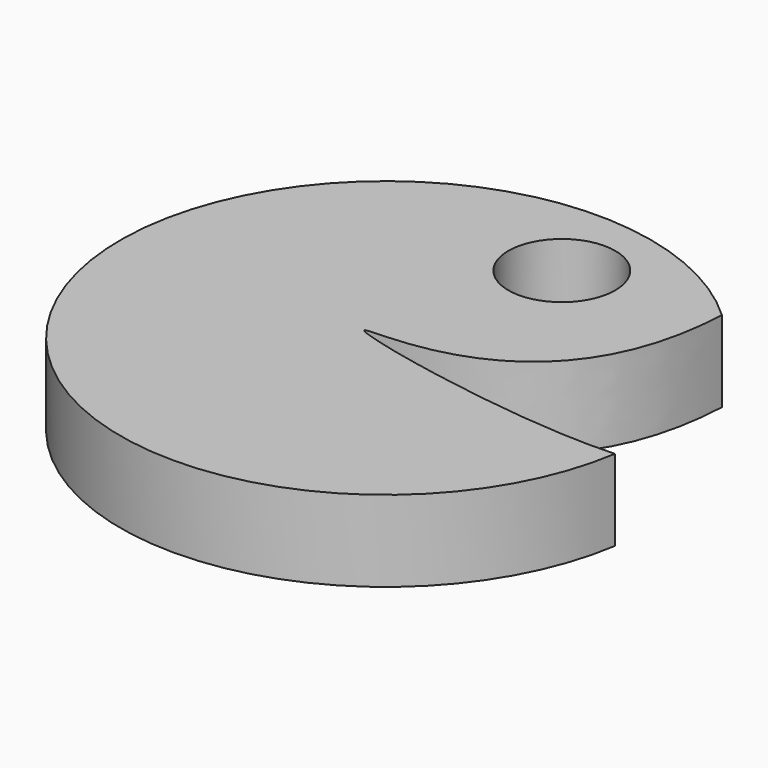
from build123d import *

# Parameters (mm, degrees)
F0_R     = 16.7498212232
F1_DEPTH = 25.4


with BuildPart() as f1:
    # F0 (on Top) → F1 (new body)
    with BuildSketch(Plane.XY):
        with BuildLine():
            add(Edge.make_bspline(
                [(56.6194579005, 60.8181916177), (53.4817835413, -6.7624999007), (-4.9721019097, 1.911282091), (-6.585683208, 0)],
                knots=[0, 0, 0, 0, 0.4973329558, 0.4973329558, 0.4973329558, 0.4973329558], degree=3))
            ThreePointArc((56.6194579005, 60.8181916177), (-33.1653231635, 76.1884294632), (-83.0940156967, 0))
            Line((-83.0940156967, 0), (-6.585683208, 0))
        make_face()
        with Locations((11.3103622571, 54.7754205763)):
            Circle(F0_R, mode=Mode.SUBTRACT)
        with BuildLine():
            Line((-6.585683208, 0), (-83.0940156967, 0))
            ThreePointArc((-83.0940156967, 0), (-6.4732776713, -82.8414879199), (82.0854394843, -12.9072099721))
            add(Edge.make_bspline(
                [(-6.585683208, 0), (-8.2165707901, -1.9317813311), (48.218652864, -14.676902204), (82.0854394843, -12.9072099721)],
                knots=[0.4973329558, 0.4973329558, 0.4973329558, 0.4973329558, 1, 1, 1, 1], degree=3))
        make_face()
    extrude(amount=F1_DEPTH)


solid = f1.part
